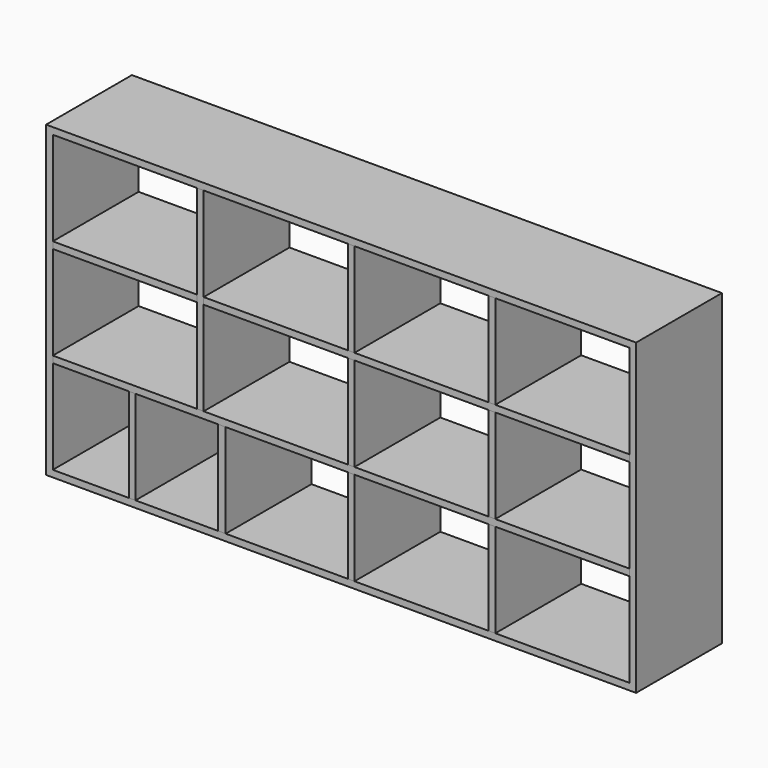
from build123d import *

# Parameters (mm, degrees)
F1_W      = 1676.4
F1_H      = 876.3
F2_DEPTH  = 152.4
F3_T      = -19.05
F4_W      = 19.05
F4_H      = 838.2
F5_DEPTH  = 304.8
F6_W      = 19.05
F6_H      = 838.2
F7_DEPTH  = 304.8
F8_W      = 781.05
F8_H      = 19.05
F8_W_2    = 838.2
F8_W_3    = 19.05
F9_DEPTH  = 304.8
F10_W     = 19.05
F10_H     = 552.45
F11_DEPTH = 304.8
F10_W_2   = 21.2622992992
F10_H_2   = 266.7


with BuildPart() as f2:
    # F1 (on Front) → F2 (new body, symmetric)
    with BuildSketch(Plane.XZ):
        Rectangle(F1_W, F1_H)
    extrude(amount=F2_DEPTH, both=True)

    # F3
    f3_openings = [f2.faces().sort_by_distance(p)[0] for p in [
        (0, -152.4, 0),
        (0, 152.4, 0),
    ]]
    offset(amount=F3_T, openings=f3_openings)


with BuildPart() as f5:
    # F4 (on face) → F5 (new body)
    with BuildSketch(Plane(origin=(0, 152.4, 0), x_dir=(-1, 0, 0), z_dir=(0, 1, 0))):
        with Locations((-428.625, 0)):
            Rectangle(F4_W, F4_H)
    extrude(amount=-F5_DEPTH)


with BuildPart() as f7:
    # F6 (on face) → F7 (new body)
    with BuildSketch(Plane(origin=(0, 152.4, 0), x_dir=(-1, 0, 0), z_dir=(0, 1, 0))):
        with Locations((-28.575, 0)):
            Rectangle(F6_W, F6_H)
    extrude(amount=-F7_DEPTH)


with BuildPart() as f9:
    # F8 (on face) → F9 (new body)
    with BuildSketch(Plane(origin=(0, 152.4, 0), x_dir=(-1, 0, 0), z_dir=(0, 1, 0))):
        with Locations((-428.625, 142.875)):
            Rectangle(F8_W, F8_H)
        with Locations((400.05, 142.875)):
            Rectangle(F8_W_2, F8_H)
        with Locations((-28.575, 142.875)):
            Rectangle(F8_W_3, F8_H)
    extrude(amount=-F9_DEPTH)


with BuildPart() as f9b:
    # F8 (on face) → F9, piece 2 (new body)
    with BuildSketch(Plane(origin=(0, 152.4, 0), x_dir=(-1, 0, 0), z_dir=(0, 1, 0))):
        with Locations((-428.625, -142.875)):
            Rectangle(F8_W, F8_H)
        with Locations((-28.575, -142.875)):
            Rectangle(F8_W_3, F8_H)
        with Locations((400.05, -142.875)):
            Rectangle(F8_W_2, F8_H)
    extrude(amount=-F9_DEPTH)


with BuildPart() as f11:
    # F10 (on face) → F11 (new body)
    with BuildSketch(Plane(origin=(0, 152.4, 0), x_dir=(-1, 0, 0), z_dir=(0, 1, 0))):
        with Locations((400.0669707298, 142.875)):
            Rectangle(F10_W, F10_H)
    extrude(amount=-F11_DEPTH)


with BuildPart() as f11b:
    # F10 (on face) → F11, piece 2 (new body)
    with BuildSketch(Plane(origin=(0, 152.4, 0), x_dir=(-1, 0, 0), z_dir=(0, 1, 0))):
        with Locations((338.6188503504, -285.75)):
            Rectangle(F10_W_2, F10_H_2)
    extrude(amount=-F11_DEPTH)


with BuildPart() as f11c:
    # F10 (on face) → F11, piece 3 (new body)
    with BuildSketch(Plane(origin=(0, 152.4, 0), x_dir=(-1, 0, 0), z_dir=(0, 1, 0))):
        with Locations((593.725, -285.75)):
            Rectangle(F10_W, F10_H_2)
    extrude(amount=-F11_DEPTH)


solid = Compound([f2.part, f5.part, f7.part, f9.part, f9b.part, f11.part, f11b.part, f11c.part])
